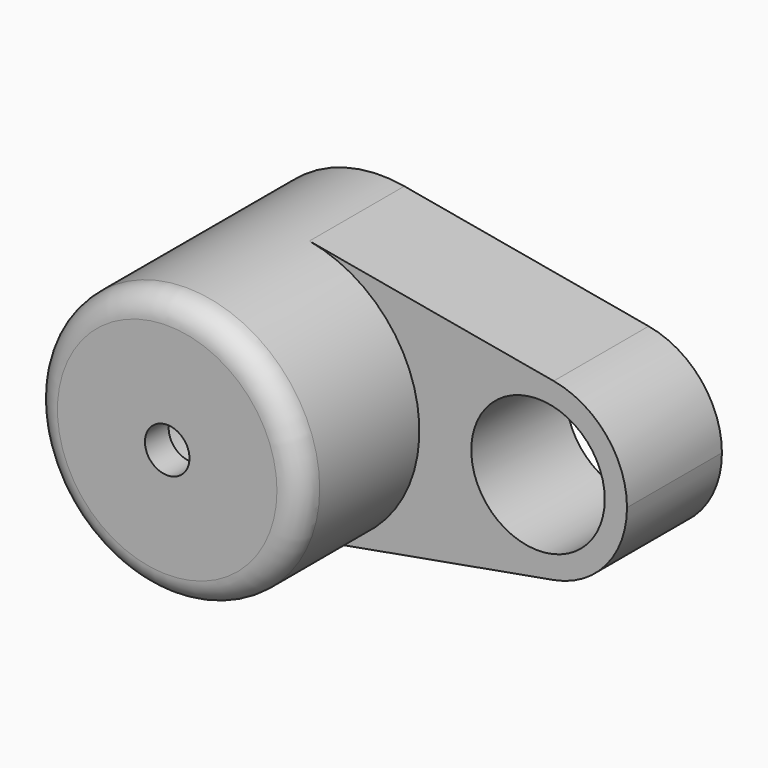
from build123d import *

# Parameters (mm, degrees)
F0_R     = 14.2875
F1_DEPTH = 25.4
F2_DEPTH = 50.8
F3_R     = 28.575
F3_R_2   = 4.7625
F4_DEPTH = 6.35
F5_R     = 5.08


with BuildPart() as f1:
    # F0 (on Front) → F1 (new body)
    with BuildSketch(Plane.XZ):
        with BuildLine():
            ThreePointArc((5.0426470588, -28.1265414802), (21.9160245563, -18.3362616868), (28.575, 0))
            ThreePointArc((28.575, 0), (21.9160245563, 18.3362616868), (5.0426470588, 28.1265414802))
            ThreePointArc((5.0426470588, 28.1265414802), (-28.575, 0), (5.0426470588, -28.1265414802))
        make_face()
        with BuildLine():
            ThreePointArc((-13.4703841816, 4.7625), (0, 14.2875), (13.4703841816, 4.7625))
            Line((13.4703841816, 4.7625), (19.05, 4.7625))
            Line((19.05, 4.7625), (19.05, -4.7625))
            Line((19.05, -4.7625), (13.4703841816, -4.7625))
            ThreePointArc((13.4703841816, -4.7625), (0, -14.2875), (-13.4703841816, -4.7625))
            Line((-13.4703841816, -4.7625), (-19.05, -4.7625))
            Line((-19.05, -4.7625), (-19.05, 4.7625))
            Line((-19.05, 4.7625), (-13.4703841816, 4.7625))
        make_face(mode=Mode.SUBTRACT)
        with BuildLine():
            ThreePointArc((5.0426470588, 28.1265414802), (21.9160245563, 18.3362616868), (28.575, 0))
            ThreePointArc((28.575, 0), (21.9160245563, -18.3362616868), (5.0426470588, -28.1265414802))
            Line((5.0426470588, -28.1265414802), (57.3367647059, -18.7510276535))
            ThreePointArc((57.3367647059, -18.7510276535), (34.925, 0), (57.3367647059, 18.7510276535))
            Line((57.3367647059, 18.7510276535), (5.0426470588, 28.1265414802))
        make_face()
        with BuildLine():
            ThreePointArc((73.025, 0), (68.5856830375, 12.2241744579), (57.3367647059, 18.7510276535))
            ThreePointArc((57.3367647059, 18.7510276535), (34.925, 0), (57.3367647059, -18.7510276535))
            ThreePointArc((57.3367647059, -18.7510276535), (68.5856830375, -12.2241744579), (73.025, 0))
        make_face()
        with Locations((53.975, 0)):
            Circle(F0_R, mode=Mode.SUBTRACT)
    extrude(amount=F1_DEPTH)

    # F0 (on Front) → F2 (join)
    with BuildSketch(Plane.XZ):
        with BuildLine():
            ThreePointArc((5.0426470588, -28.1265414802), (21.9160245563, -18.3362616868), (28.575, 0))
            ThreePointArc((28.575, 0), (21.9160245563, 18.3362616868), (5.0426470588, 28.1265414802))
            ThreePointArc((5.0426470588, 28.1265414802), (-28.575, 0), (5.0426470588, -28.1265414802))
        make_face()
        with BuildLine():
            ThreePointArc((-13.4703841816, 4.7625), (0, 14.2875), (13.4703841816, 4.7625))
            Line((13.4703841816, 4.7625), (19.05, 4.7625))
            Line((19.05, 4.7625), (19.05, -4.7625))
            Line((19.05, -4.7625), (13.4703841816, -4.7625))
            ThreePointArc((13.4703841816, -4.7625), (0, -14.2875), (-13.4703841816, -4.7625))
            Line((-13.4703841816, -4.7625), (-19.05, -4.7625))
            Line((-19.05, -4.7625), (-19.05, 4.7625))
            Line((-19.05, 4.7625), (-13.4703841816, 4.7625))
        make_face(mode=Mode.SUBTRACT)
        with BuildLine():
            ThreePointArc((-13.4703841816, -4.7625), (-14.2875, 0), (-13.4703841816, 4.7625))
            Line((-13.4703841816, 4.7625), (-19.05, 4.7625))
            Line((-19.05, 4.7625), (-19.05, -4.7625))
            Line((-19.05, -4.7625), (-13.4703841816, -4.7625))
        make_face()
    extrude(amount=F2_DEPTH)

    # F3 (on face) → F4 (join)
    with BuildSketch(Plane.XZ.offset(50.8)):
        Circle(F3_R)
        Circle(F3_R_2, mode=Mode.SUBTRACT)
    extrude(amount=F4_DEPTH)

    # F5
    f5_edges = [f1.edges().sort_by_distance(p)[0] for p in [
        (-28.575, -57.15, 0),
    ]]
    fillet(f5_edges, radius=F5_R)


solid = f1.part
